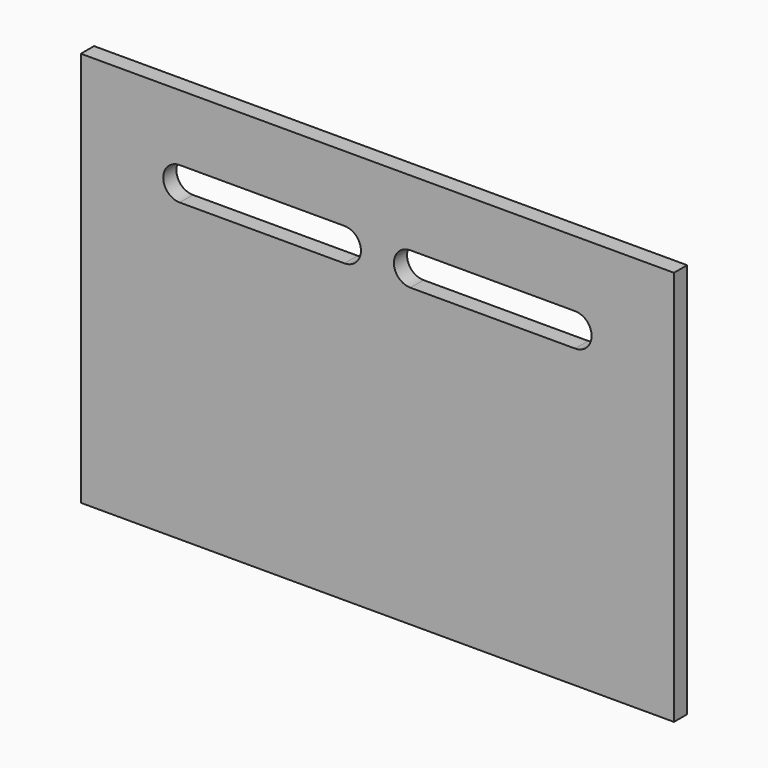
from build123d import *

# Parameters (mm, degrees)
F0_W     = 180
F0_H     = 120
F1_DEPTH = 5


with BuildPart() as f1:
    # F0 (on Front) → F1 (new body)
    with BuildSketch(Plane.XZ):
        with Locations((90, 60)):
            Rectangle(F0_W, F0_H)
        with BuildLine():
            ThreePointArc((30, 90), (25, 95), (30, 100))
            Line((30, 100), (80, 100))
            ThreePointArc((80, 100), (85, 95), (80, 90))
            Line((80, 90), (30, 90))
        make_face(mode=Mode.SUBTRACT)
        with BuildLine():
            ThreePointArc((100, 90), (95, 95), (100, 100))
            Line((100, 100), (150, 100))
            ThreePointArc((150, 100), (155, 95), (150, 90))
            Line((150, 90), (100, 90))
        make_face(mode=Mode.SUBTRACT)
    extrude(amount=F1_DEPTH)


solid = f1.part
